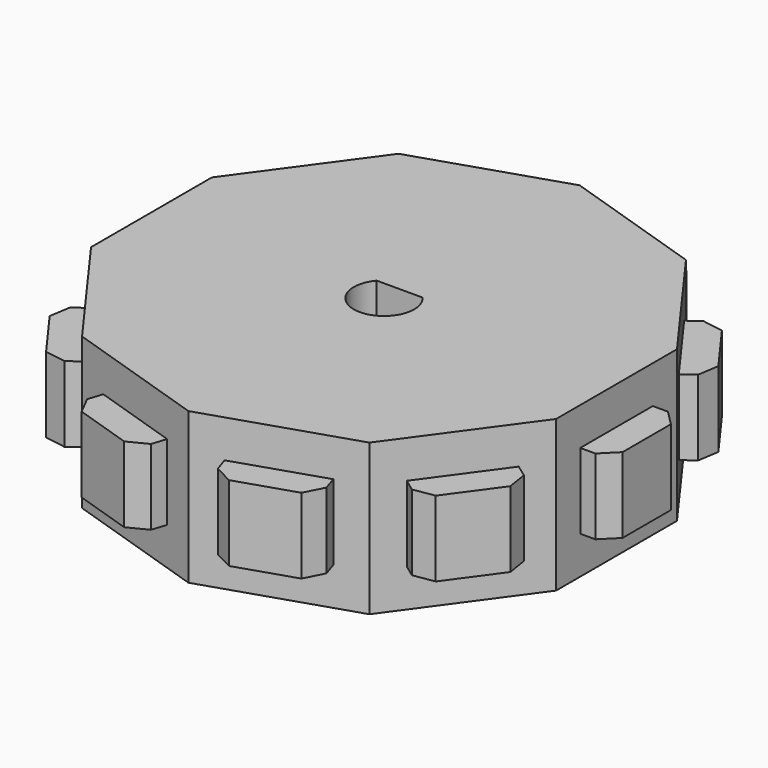
from build123d import *

# Parameters (mm, degrees)
F1_DEPTH = 5
F2_W     = 2
F2_H     = 6
F3_DEPTH = 2.5
F4_SIZE  = 1


with BuildPart() as f1:
    # F0 (on Top) → F1 (new body, symmetric)
    with BuildSketch(Plane.XY):
        Polygon((15.3884176859, 5), (9.510565163, 13.0901699437), (0, 16.1803398875), (-9.510565163, 13.0901699437), (-15.3884176859, 5), (-15.3884176859, -5), (-9.510565163, -13.0901699437), (0, -16.1803398875), (9.510565163, -13.0901699437), (15.3884176859, -5), align=None)
        with BuildLine():
            ThreePointArc((1.5198684154, 1.3), (0, -2), (-1.5198684154, 1.3))
            Line((-1.5198684154, 1.3), (1.5198684154, 1.3))
        make_face(mode=Mode.SUBTRACT)
    extrude(amount=F1_DEPTH, both=True)

    # F2 (on Top) → F3 (join, symmetric)
    with BuildSketch(Plane.XY):
        with Locations((16.3884176859, 0)):
            Rectangle(F2_W, F2_H)
        Polygon((15.83088117, 7.7936044933), (12.3041696563, 12.6477064596), (10.6861356675, 11.472135955), (14.2128471813, 6.6180339887), align=None)
        Polygon((8.2264861191, 15.6103169651), (2.5201470213, 17.4644189313), (1.9021130326, 15.5623058987), (7.6084521304, 13.7082039325), align=None)
        Polygon((-2.5201470213, 17.4644189313), (-8.2264861191, 15.6103169651), (-7.6084521304, 13.7082039325), (-1.9021130326, 15.5623058987), align=None)
        Polygon((-12.3041696563, 12.6477064596), (-15.83088117, 7.7936044933), (-14.2128471813, 6.6180339887), (-10.6861356675, 11.472135955), align=None)
        with Locations((-16.3884176859, 0)):
            Rectangle(F2_W, F2_H)
        Polygon((-15.83088117, -7.7936044933), (-12.3041696563, -12.6477064596), (-10.6861356675, -11.472135955), (-14.2128471813, -6.6180339887), align=None)
        Polygon((-8.2264861191, -15.6103169651), (-2.5201470213, -17.4644189313), (-1.9021130326, -15.5623058987), (-7.6084521304, -13.7082039325), align=None)
        Polygon((2.5201470213, -17.4644189313), (8.2264861191, -15.6103169651), (7.6084521304, -13.7082039325), (1.9021130326, -15.5623058987), align=None)
        Polygon((12.3041696563, -12.6477064596), (15.83088117, -7.7936044933), (14.2128471813, -6.6180339887), (10.6861356675, -11.472135955), align=None)
    extrude(amount=F3_DEPTH, both=True)

    # F4
    f4_edges = [f1.edges().sort_by_distance(p)[0] for p in [
        (12.30417, -12.647706, 0),
        (15.830881, -7.793604, 0),
        (17.388418, -3, 0),
        (17.388418, 3, 0),
        (15.830881, 7.793604, 0),
        (12.30417, 12.647706, 0),
        (8.226486, 15.610317, 0),
        (2.520147, 17.464419, 0),
        (-2.520147, 17.464419, 0),
        (-8.226486, 15.610317, 0),
        (-12.30417, 12.647706, 0),
        (-15.830881, 7.793604, 0),
        (-17.388418, 3, 0),
        (-17.388418, -3, 0),
        (-15.830881, -7.793604, 0),
        (-12.30417, -12.647706, 0),
        (-2.520147, -17.464419, 0),
        (-8.226486, -15.610317, 0),
        (8.226486, -15.610317, 0),
        (2.520147, -17.464419, 0),
    ]]
    chamfer(f4_edges, length=F4_SIZE)


solid = f1.part
